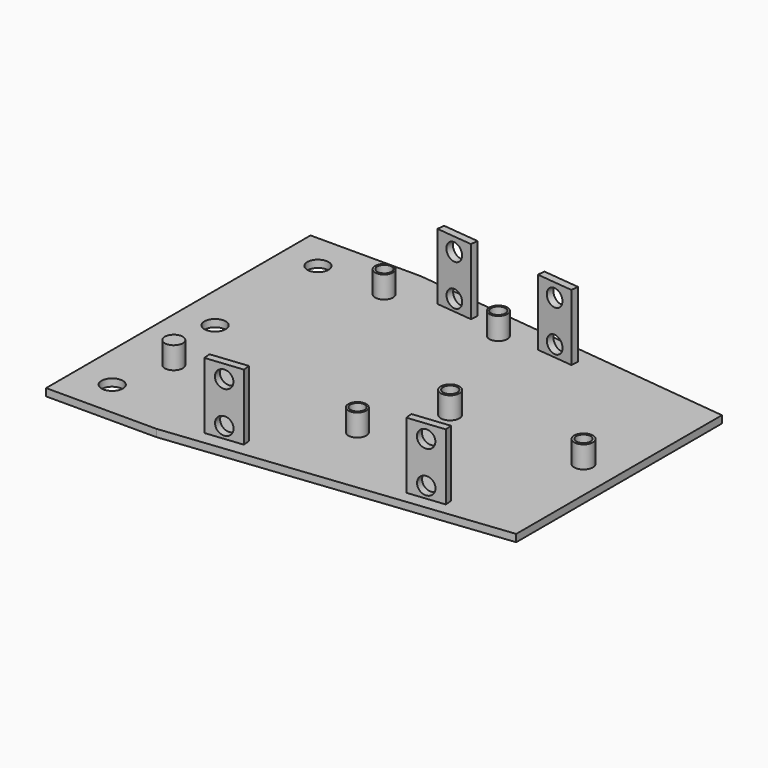
from build123d import *

# Parameters (mm, degrees)
SKETCH048_R                = 2.34
EXTRUDE050_DEPTH           = 20
SKETCH047_W                = 10
SKETCH047_H                = 20
EXTRUDE049_DEPTH           = 2
EXTRUDE049_PLACEMENT_ANGLE = 90
CUT030_PLACEMENT_ANGLE     = 96
CUT029_PLACEMENT_ANGLE     = 96
CUT028_PLACEMENT_ANGLE     = 84
CUT027_PLACEMENT_ANGLE     = 84
SKETCH018_R                = 1.955414
SKETCH018_R_2              = 1.945
SKETCH018_R_3              = 1.945712
EXTRUDE054_DEPTH           = 30
SKETCH017_R                = 2.552893
SKETCH017_R_2              = 2.443798
EXTRUDE053_DEPTH           = 7
SKETCH003_R                = 2.9
EXTRUDE052_DEPTH           = 50
EXTRUDE051_DEPTH           = 2


with BuildPart() as tornillos010:
    # Sketch048 (on Face6 of Extrude049) → Extrude050 (new body)
    with BuildSketch(Plane(origin=(-98, -107, 0), x_dir=(0, -1, 0), z_dir=(-1, 0, 0))):
        with Locations((-135.010223, 26.301971)):
            Circle(SKETCH048_R)
        with Locations((-135.047425, 15.116198)):
            Circle(SKETCH048_R)
    extrude(amount=EXTRUDE050_DEPTH)


with BuildPart() as tornillos010_1:
    # Extrude050 placement: moved
    add(tornillos010.part.moved(Location((17, 0, 0))))


with BuildPart() as soporte008:
    # Sketch047 → Extrude049 (new body)
    with BuildSketch(Plane.XZ):
        with Locations((-135, 20)):
            Rectangle(SKETCH047_W, SKETCH047_H)
    extrude(amount=EXTRUDE049_DEPTH)


with BuildPart() as soporte008_1:
    # Extrude049 placement: moved
    add(soporte008.part.moved(Location((-96, -107, 0))).rotate(Axis((-96, -107, 0), (0, 0, -1)), EXTRUDE049_PLACEMENT_ANGLE))


with BuildPart() as soporte017:
    # Cut030 base: copy of Soporte008
    add(soporte008_1.part)

    # Cut030: cut Tornillos010
    add(tornillos010_1.part, mode=Mode.SUBTRACT)


with BuildPart() as soporte017_1:
    # Cut030 placement: moved
    add(soporte017.part.moved(Location((7.869711, -10.850119, 18))).rotate(Axis((7.869711, -10.850119, 18), (0, 0, -1)), CUT030_PLACEMENT_ANGLE))


with BuildPart() as soporte016:
    # Cut029 base: copy of Soporte008
    add(soporte008_1.part)

    # Cut029: cut Tornillos010
    add(tornillos010_1.part, mode=Mode.SUBTRACT)


with BuildPart() as soporte016_1:
    # Cut029 placement: moved
    add(soporte016.part.moved(Location((37.705367, -13.985973, 18))).rotate(Axis((37.705367, -13.985973, 18), (0, 0, -1)), CUT029_PLACEMENT_ANGLE))


with BuildPart() as soporte015:
    # Cut028 base: copy of Soporte008
    add(soporte008_1.part)

    # Cut028: cut Tornillos010
    add(tornillos010_1.part, mode=Mode.SUBTRACT)


with BuildPart() as soporte015_1:
    # Cut028 placement: moved
    add(soporte015.part.moved(Location((26.348989, -93.015079, 18))).rotate(Axis((26.348989, -93.015079, 18), (0, 0, -1)), CUT028_PLACEMENT_ANGLE))


with BuildPart() as soporte014:
    # Cut027 base: copy of Soporte008
    add(soporte008_1.part)

    # Cut027: cut Tornillos010
    add(tornillos010_1.part, mode=Mode.SUBTRACT)


with BuildPart() as soporte014_1:
    # Cut027 placement: moved
    add(soporte014.part.moved(Location((77.069606, -87.684127, 18))).rotate(Axis((77.069606, -87.684127, 18), (0, 0, -1)), CUT027_PLACEMENT_ANGLE))


with BuildPart() as extrude054:
    # Sketch018 → Extrude054 (new body)
    with BuildSketch(Plane.XY.offset(36)):
        with Locations((74.789169, 44.062363)):
            Circle(SKETCH018_R)
        with Locations((111.023758, 44.110783)):
            Circle(SKETCH018_R)
        with Locations((29.159777, 78.682182)):
            Circle(SKETCH018_R_2)
        with Locations((60.039303, 78.850616)):
            Circle(SKETCH018_R_3)
        with Locations((64.412148, 25.488655)):
            Circle(SKETCH018_R_3)
    extrude(amount=EXTRUDE054_DEPTH)


with BuildPart() as extrude054_1:
    # Extrude054 placement: moved
    add(extrude054.part.moved(Location((0, 0, -22))))


with BuildPart() as base_tornillos001:
    # Sketch017 → Extrude053 (new body)
    with BuildSketch(Plane.XY.offset(30)):
        with Locations((74.792107, 44.0089)):
            Circle(SKETCH017_R)
        with Locations((111.059273, 44.092655)):
            Circle(SKETCH017_R)
        with Locations((60.050713, 78.85218)):
            Circle(SKETCH017_R_2)
        with Locations((29.144051, 78.600906)):
            Circle(SKETCH017_R_2)
        with Locations((14.570175, 25.247131)):
            Circle(SKETCH017_R_2)
        with Locations((64.40612, 25.414646)):
            Circle(SKETCH017_R_2)
    extrude(amount=EXTRUDE053_DEPTH)


with BuildPart() as base_tornillos001_1:
    # Extrude053 placement: moved
    add(base_tornillos001.part.moved(Location((0, 0, -1))))


with BuildPart() as tornillos011:
    # Sketch003 → Extrude052 (new body)
    with BuildSketch(Plane.XY.offset(10)):
        with Locations((10, 80.016689)):
            Circle(SKETCH003_R)
        with Locations((10, 45.008344)):
            Circle(SKETCH003_R)
        with Locations((10, 10)):
            Circle(SKETCH003_R)
    extrude(amount=EXTRUDE052_DEPTH)


with BuildPart() as tornillos011_1:
    # Extrude052 placement: moved
    add(tornillos011.part.moved(Location((0, 0, -21))))


with BuildPart() as obj1:
    # Sketch049 → Extrude051 (new body)
    with BuildSketch(Plane.XY):
        Polygon((0, 0), (30, 0), (120, 10), (120, 80), (30, 90), (0, 90), align=None)
    extrude(amount=EXTRUDE051_DEPTH)


with BuildPart() as obj1_1:
    # Extrude051 placement: moved
    add(obj1.part.moved(Location((0, 0, 28))))

    # Cut: cut Tornillos011
    add(tornillos011_1.part, mode=Mode.SUBTRACT)

    # Fusion: union Base tornillos001
    add(base_tornillos001_1.part)

    # Cut026: cut Extrude054
    add(extrude054_1.part, mode=Mode.SUBTRACT)

    # Fusion015: union Soporte014
    add(soporte014_1.part)

    # Fusion016: union Soporte015
    add(soporte015_1.part)

    # Fusion017: union Soporte016
    add(soporte016_1.part)

    # Fusion018: union Soporte017
    add(soporte017_1.part)


solid = obj1_1.part
